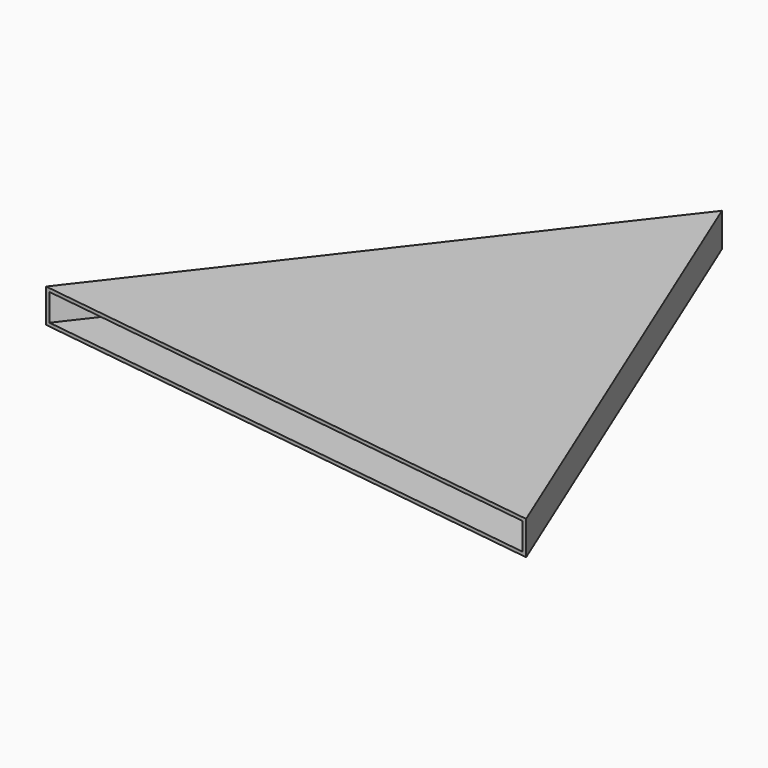
from build123d import *

# Parameters (mm, degrees)
F1_DEPTH = 25.4
F2_T     = -2.54


with BuildPart() as f1:
    # F0 (on Top) → F1 (new body)
    with BuildSketch(Plane.XY):
        Polygon((186.449217, -144.062909), (31.53753, 233.501213), (-217.986748, -89.438304), align=None)
    extrude(amount=F1_DEPTH)

    # F2
    f2_openings = [f1.faces().sort_by_distance(p)[0] for p in [
        (-15.768765, -116.750607, 12.7),
    ]]
    offset(amount=F2_T, openings=f2_openings)


solid = f1.part
